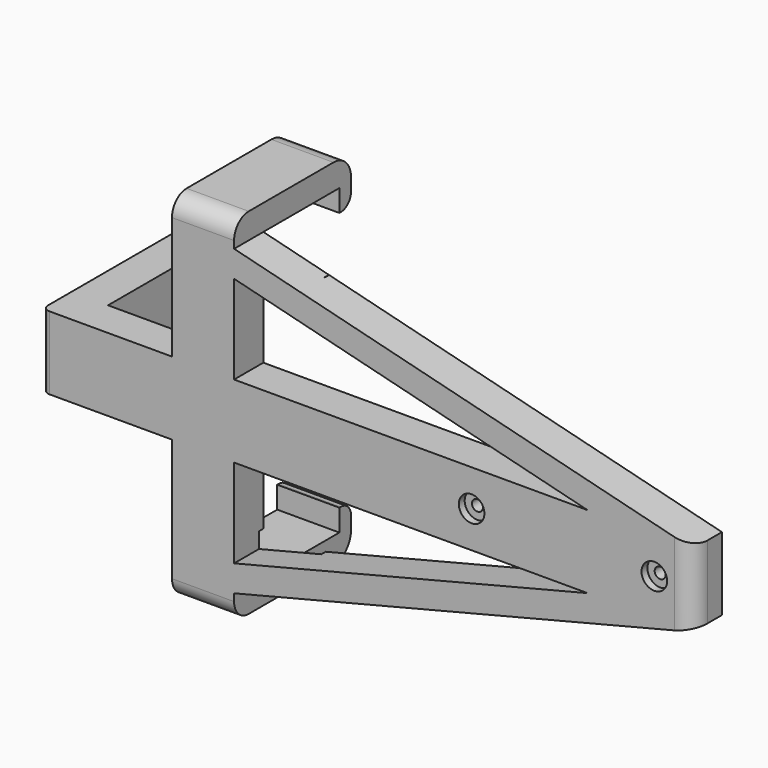
from build123d import *

# Parameters (mm, degrees)
PAD_DEPTH       = 20
SKETCH001_R     = 1.5
POCKET_DEPTH    = 50.001
SKETCH002_R     = 2.25
POCKET001_DEPTH = 10.001
SKETCH003_R     = 3.5
POCKET002_DEPTH = 2
PAD001_DEPTH    = 10
SKETCH006_W     = 17
SKETCH006_H     = 7
PAD002_DEPTH    = 36
SKETCH007_W     = 17
SKETCH007_H     = 13
PAD003_DEPTH    = 4
FILLET_R        = 3.5
FILLET001_R     = 3.5
FILLET002_R     = 6
FILLET003_R     = 6
FILLET004_R     = 5
FILLET005_R     = 5
FILLET006_R     = 5
FILLET007_R     = 2
FILLET008_R     = 2
POCKET003_START = -3
SKETCH008_W     = 1.5
SKETCH008_H     = 7
POCKET003_DEPTH = 32


with BuildPart() as part:
    # Sketch → Pad (new body)
    with BuildSketch(Plane.XY):
        Polygon((0, 50), (0, 0), (178, 0), (178, 10), (10, 10), (10, 50), align=None)
    extrude(amount=PAD_DEPTH)

    # Sketch001 (on Face2 of Pad) → Pocket (cut, through all)
    with BuildSketch(Plane.XZ):
        with Locations((117.5, 10)):
            Circle(SKETCH001_R)
        with Locations((167.5, 10)):
            Circle(SKETCH001_R)
    extrude(amount=-POCKET_DEPTH, mode=Mode.SUBTRACT)

    # Sketch002 (on Face6 of Pocket) → Pocket001 (cut, through all)
    with BuildSketch(Plane.YZ.offset(10)):
        with Locations((19.428571, 10)):
            Circle(SKETCH002_R)
        with Locations((36.571429, 10)):
            Circle(SKETCH002_R)
    extrude(amount=-POCKET001_DEPTH, mode=Mode.SUBTRACT)

    # Sketch003 (on Face5 of Pocket001) → Pocket002 (cut)
    with BuildSketch(Plane.XZ):
        with Locations((117.5, 10)):
            Circle(SKETCH003_R)
        with Locations((167.5, 10)):
            Circle(SKETCH003_R)
    extrude(amount=-POCKET002_DEPTH, mode=Mode.SUBTRACT)

    # Sketch004 (on Face10 of Pocket002) → Pad001 (join)
    with BuildSketch(Plane(origin=(0, 10, 0), x_dir=(-1, 0, 0), z_dir=(0, 1, 0))):
        Polygon((-35.5, 20), (-35.5, 51.5), (-52.5, 51.5), (-178, 20), (-149.246042, 20), (-52.5, 44.282871), (-52.5, 20), align=None)
        Polygon((-52.5, 0), (-52.5, -24.282871), (-149.246042, 0), (-178, 0), (-52.5, -31.5), (-35.5, -31.5), (-35.5, 0), align=None)
    extrude(amount=-PAD001_DEPTH)

    # Sketch006 (on Face15 of Pad001) → Pad002 (join)
    with BuildSketch(Plane.XZ):
        with Locations((44, 55)):
            Rectangle(SKETCH006_W, SKETCH006_H)
        with Locations((44, -35)):
            Rectangle(SKETCH006_W, SKETCH006_H)
    extrude(amount=-PAD002_DEPTH)

    # Sketch007 (on Face31 of Pad002) → Pad003 (join)
    with BuildSketch(Plane(origin=(0, 36, 0), x_dir=(-1, 0, 0), z_dir=(0, 1, 0))):
        with Locations((-44, -32)):
            Rectangle(SKETCH007_W, SKETCH007_H)
        with Locations((-44, 52)):
            Rectangle(SKETCH007_W, SKETCH007_H)
    extrude(amount=PAD003_DEPTH)

    # Fillet
    fillet_edges = [part.edges().sort_by_distance(p)[0] for p in [
        (44, 40, 45.5),
    ]]
    fillet(fillet_edges, radius=FILLET_R)

    # Fillet001
    fillet001_edges = [part.edges().sort_by_distance(p)[0] for p in [
        (44, 40, -25.5),
    ]]
    fillet(fillet001_edges, radius=FILLET001_R)

    # Fillet002
    fillet002_edges = [part.edges().sort_by_distance(p)[0] for p in [
        (44, 40, 58.5),
    ]]
    fillet(fillet002_edges, radius=FILLET002_R)

    # Fillet003
    fillet003_edges = [part.edges().sort_by_distance(p)[0] for p in [
        (44, 40, -38.5),
    ]]
    fillet(fillet003_edges, radius=FILLET003_R)

    # Fillet004
    fillet004_edges = [part.edges().sort_by_distance(p)[0] for p in [
        (44, 0, -38.5),
    ]]
    fillet(fillet004_edges, radius=FILLET004_R)

    # Fillet005
    fillet005_edges = [part.edges().sort_by_distance(p)[0] for p in [
        (44, 0, 58.5),
    ]]
    fillet(fillet005_edges, radius=FILLET005_R)

    # Fillet006
    fillet006_edges = [part.edges().sort_by_distance(p)[0] for p in [
        (178, 0, 10),
    ]]
    fillet(fillet006_edges, radius=FILLET006_R)

    # Fillet007
    fillet007_edges = [part.edges().sort_by_distance(p)[0] for p in [
        (0, 0, 10),
    ]]
    fillet(fillet007_edges, radius=FILLET007_R)

    # Fillet008
    fillet008_edges = [part.edges().sort_by_distance(p)[0] for p in [
        (0, 50, 10),
    ]]
    fillet(fillet008_edges, radius=FILLET008_R)

    # Sketch008 (on Face8 of Fillet008) → Pocket003 (cut)
    with BuildSketch(Plane(origin=(35.5, 0, 0), x_dir=(0, -1, 0), z_dir=(-1, 0, 0)).offset(POCKET003_START)):
        with Locations((-9.25, 43.5)):
            Rectangle(SKETCH008_W, SKETCH008_H)
        with Locations((-9.25, -23.5)):
            Rectangle(SKETCH008_W, SKETCH008_H)
    extrude(amount=-POCKET003_DEPTH, mode=Mode.SUBTRACT)


solid = part.part
